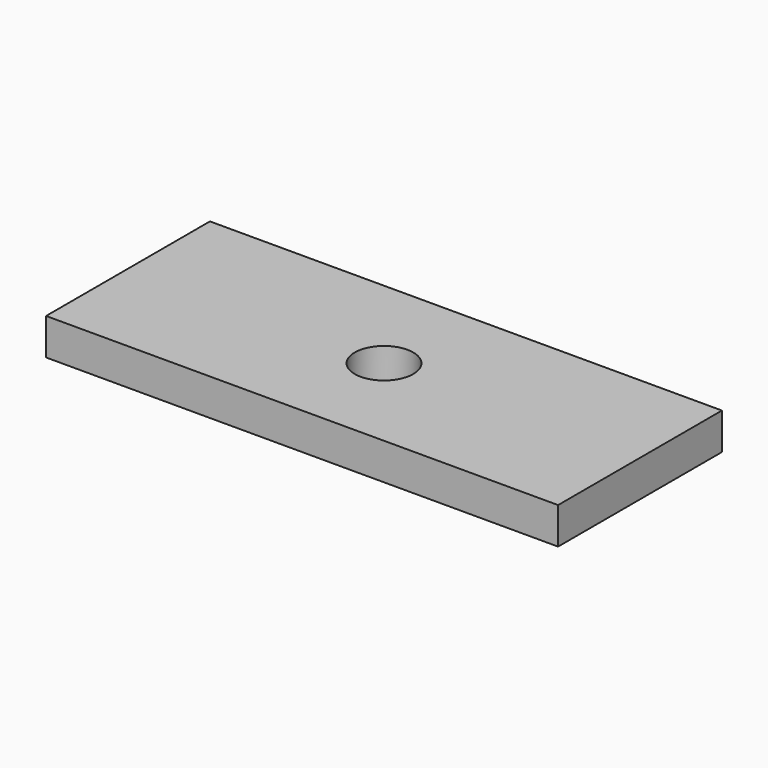
from build123d import *

# Parameters (mm, degrees)
BOX_W          = 35
BOX_H          = 14
BOX_DEPTH      = 2.5
CYLINDER_R     = 2
CYLINDER_DEPTH = 3.5


with BuildPart() as part:
    # Box → Box (join)
    with BuildSketch(Plane.XY):
        with Locations((17.5, 7)):
            Rectangle(BOX_W, BOX_H)
    extrude(amount=BOX_DEPTH)

    # Cylinder → Cylinder (cut)
    with BuildSketch(Plane(origin=(17.5, 7, -1), x_dir=(1, 0, 0), z_dir=(0, 0, 1))):
        Circle(CYLINDER_R)
    extrude(amount=CYLINDER_DEPTH, mode=Mode.SUBTRACT)


solid = part.part
